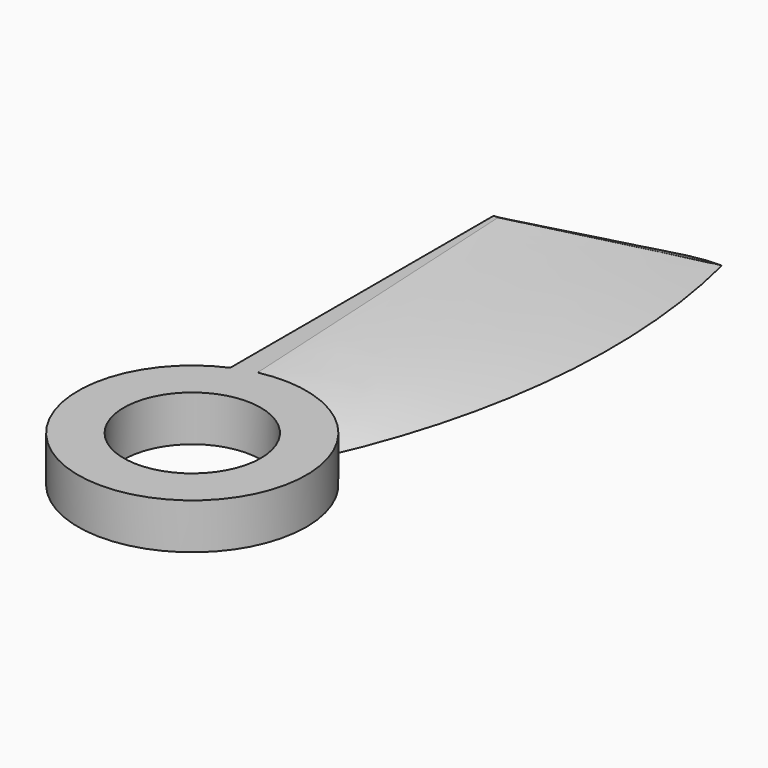
from build123d import *

# Parameters (mm, degrees)
F4_R     = 6.35
F4_R_2   = 3.81
F5_DEPTH = 2.54


with BuildPart() as f3:
    # F0 (on Top) → F3 section 0
    with BuildSketch(Plane.XY):
        with BuildLine():
            Line((0, 17.78), (0, 0))
            Line((0, 0), (5.08, 0))
            ThreePointArc((5.08, 0), (8.5405078821, 12.4809492118), (7.62, 25.4))
            ThreePointArc((7.62, 25.4), (2.2318463274, 23.1681536726), (0, 17.78))
        make_face()
    # F2 (on offset) → F3 section 1
    with BuildSketch(Plane.XY.offset(2.54)):
        Polygon((0, 19.05), (0, 0), (1.27, 0), (0.254, 19.05), align=None)
    loft()

    # F4 (on Top) → F5 (join, through all)
    with BuildSketch(Plane.XY):
        with Locations((2.54, -5.08)):
            Circle(F4_R)
        with Locations((2.54, -5.08)):
            Circle(F4_R_2, mode=Mode.SUBTRACT)
    extrude(amount=F5_DEPTH)


solid = f3.part
